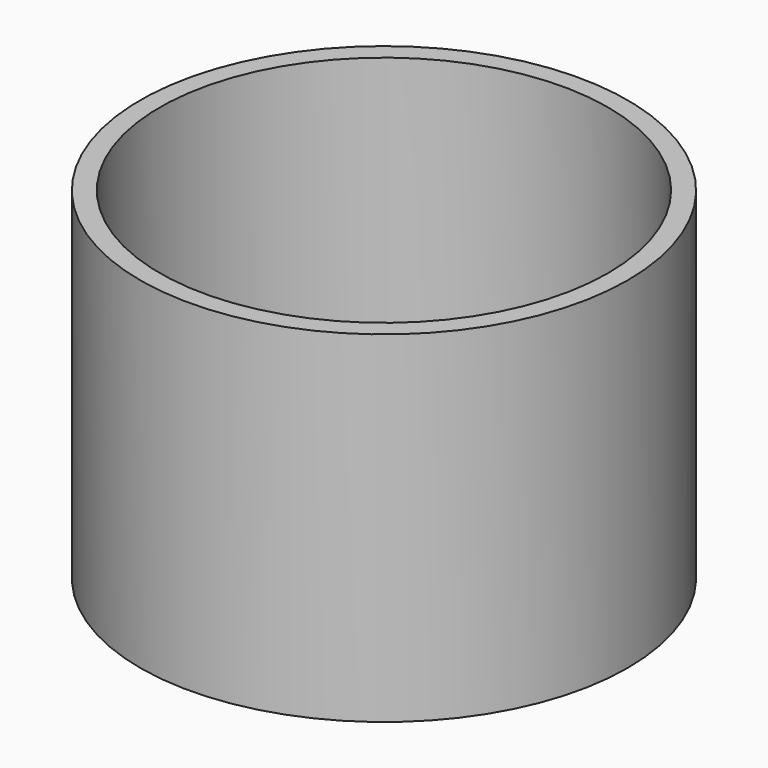
from build123d import *

# Parameters (mm, degrees)
F0_R     = 6.35
F0_R_2   = 5.842
F1_DEPTH = 8.89
F2_START = 2.54
F2_DEPTH = 22.86


with BuildPart() as f1:
    # F0 (on Top) → F1 (new body)
    with BuildSketch(Plane.XY):
        Circle(F0_R)
        Circle(F0_R_2, mode=Mode.SUBTRACT)
        Circle(F0_R_2)
    extrude(amount=F1_DEPTH)

    # F0 (on Top) → F2 (cut)
    with BuildSketch(Plane.XY.offset(F2_START)):
        Circle(F0_R_2)
    extrude(amount=F2_DEPTH, mode=Mode.SUBTRACT)


solid = f1.part
